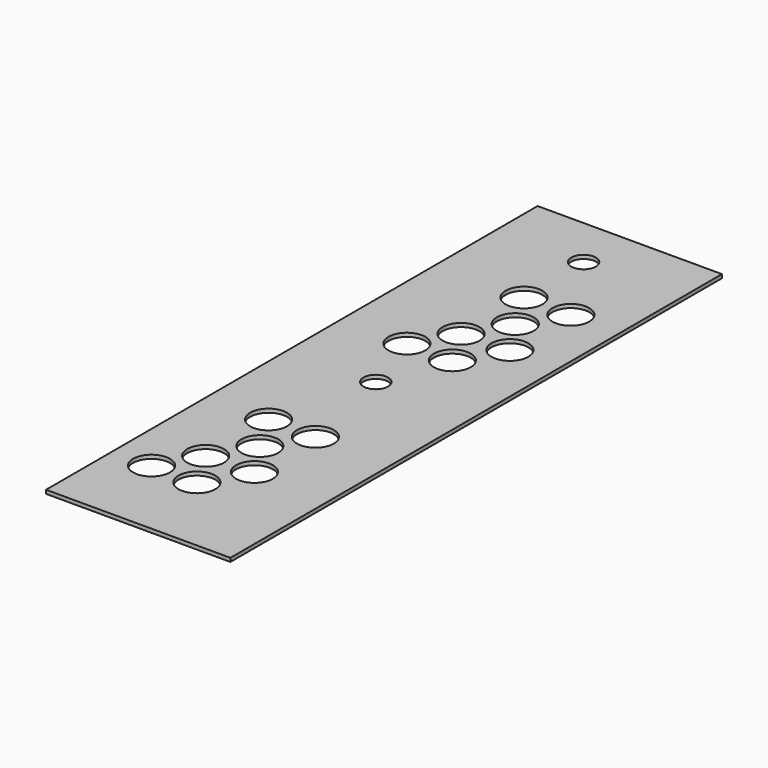
from build123d import *

# Parameters (mm, degrees)
PAD_DEPTH     = 3
SKETCH001_R   = 15
SKETCH001_R_2 = 10
POCKET_DEPTH  = 3.001


with BuildPart() as part:
    # Sketch → Pad (new body)
    with BuildSketch(Plane.XY):
        Polygon((0, 500), (150, 500), (150, 0), (0, 0), (0, 250), align=None)
    extrude(amount=PAD_DEPTH)

    # Sketch001 (on Face7 of Pad) → Pocket (cut, through all)
    with BuildSketch(Plane.XY.offset(3)):
        with Locations((31.579084, 67.777323)):
            Circle(SKETCH001_R)
        with Locations((50.054292, 99.777323)):
            Circle(SKETCH001_R)
        with Locations((68.529501, 131.777323)):
            Circle(SKETCH001_R)
        with Locations((50.054292, 163.777323)):
            Circle(SKETCH001_R)
        with Locations((71, 246.635039)):
            Circle(SKETCH001_R_2)
        with Locations((68.529501, 67.777323)):
            Circle(SKETCH001_R)
        with Locations((88.15941, 101.777323)):
            Circle(SKETCH001_R)
        with Locations((88.15941, 163.777323)):
            Circle(SKETCH001_R)
        with Locations((53.441466, 300.257294)):
            Circle(SKETCH001_R)
        with Locations((71.916674, 332.257294)):
            Circle(SKETCH001_R)
        with Locations((90.391883, 364.257294)):
            Circle(SKETCH001_R)
        with Locations((71.916674, 396.257294)):
            Circle(SKETCH001_R)
        with Locations((71, 458)):
            Circle(SKETCH001_R_2)
        with Locations((90.391883, 300.257294)):
            Circle(SKETCH001_R)
        with Locations((110.021792, 334.257294)):
            Circle(SKETCH001_R)
        with Locations((110.021792, 396.257294)):
            Circle(SKETCH001_R)
    extrude(amount=-POCKET_DEPTH, mode=Mode.SUBTRACT)


solid = part.part
